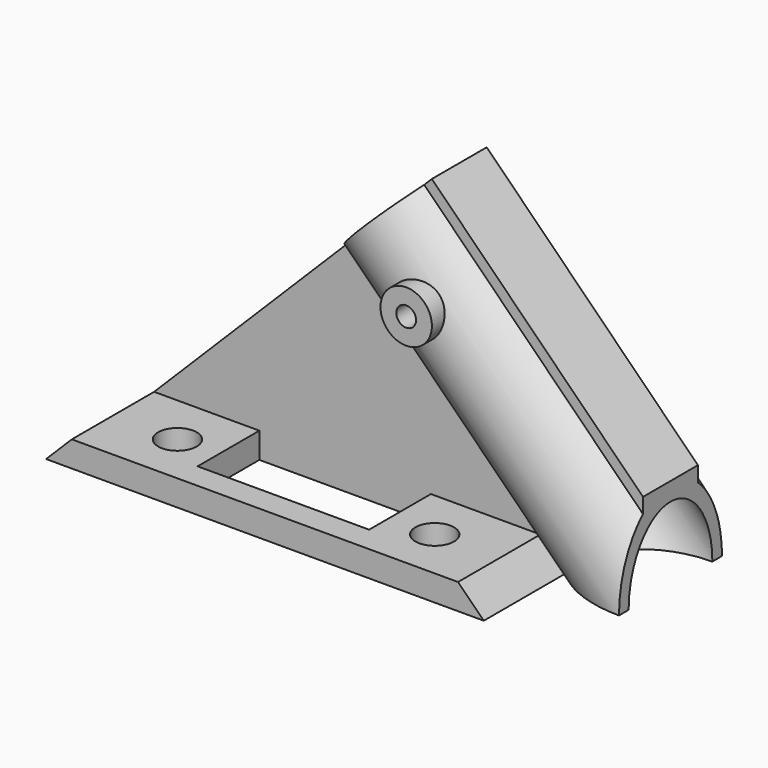
from build123d import *

# Parameters (mm, degrees)
F1_DEPTH  = 60
F3_DEPTH  = 42.4274068712
F4_R      = 3
F5_DEPTH  = 5
F6_R      = 6.1
F7_DEPTH  = 42.4274068712
F8_W      = 4
F8_H      = 30.587
F8_W_2    = 8
F8_H_2    = 34.8228137424
F9_DEPTH  = 34.831
F11_DEPTH = 12
F12_DEPTH = 20
F13_R     = 2.25
F14_DEPTH = 3
F15_W     = 20
F15_H     = 9
F16_DEPTH = 3
F17_R     = 1.15
F18_DEPTH = 25


with BuildPart() as f1:
    # F0 (on Front) → F1 (new body)
    with BuildSketch(Plane.XZ):
        Polygon((60, 60), (0, 0), (60, 0), align=None)
    extrude(amount=F1_DEPTH)

    # F2 (on face) → F3 (cut, through all)
    with BuildSketch(Plane(origin=(0, 0, 0), x_dir=(0, -1, 0), z_dir=(-0.7071067812, 0, 0.7071067812))):
        with BuildLine():
            Line((0, 84.8528137424), (0, 0))
            Line((0, 0), (26, 0))
            Line((26, 0), (26, 36.0857112298))
            ThreePointArc((26, 36.0857112298), (22.5, 42.43), (26, 48.7742887702))
            Line((26, 48.7742887702), (26, 84.8528137424))
            Line((26, 84.8528137424), (0, 84.8528137424))
        make_face()
        with BuildLine():
            Line((34, 84.8528137424), (34, 48.7742887702))
            ThreePointArc((34, 48.7742887702), (37.5, 42.43), (34, 36.0857112298))
            Line((34, 36.0857112298), (34, 0))
            Line((34, 0), (60, 0))
            Line((60, 0), (60, 84.8528137424))
            Line((60, 84.8528137424), (34, 84.8528137424))
        make_face()
    extrude(amount=-F3_DEPTH, mode=Mode.SUBTRACT)

    # F4 (on face) → F5 (join)
    with BuildSketch(Plane.XZ.offset(34)):
        with Locations((36.3863177288, 23.6187637227)):
            Circle(F4_R)
    extrude(amount=F5_DEPTH)

    # F6 (on face) → F7 (cut, through all)
    with BuildSketch(Plane(origin=(0, 0, 0), x_dir=(0, -1, 0), z_dir=(-0.7071067812, 0, 0.7071067812))):
        with Locations((30, 42.43)):
            Circle(F6_R)
    extrude(amount=-F7_DEPTH, mode=Mode.SUBTRACT)

    # F8 (on face) → F9 (cut, through all)
    with BuildSketch(Plane(origin=(0, 0, 0), x_dir=(0, -1, 0), z_dir=(-0.7071067812, 0, 0.7071067812))):
        with Locations((30, 19.5365)):
            Rectangle(F8_W, F8_H)
        with Locations((30, 67.4414068712)):
            Rectangle(F8_W_2, F8_H_2)
    extrude(amount=-F9_DEPTH, mode=Mode.SUBTRACT)

    # F10 (on face) → F11 (join)
    with BuildSketch(Plane.XZ.offset(34)):
        Polygon((3, 3), (0, 0), (51.032902229, 0), (48.032902229, 3), align=None)
    extrude(amount=F11_DEPTH)

    # F10 (on face) → F12 (join)
    with BuildSketch(Plane.XZ.offset(34)):
        Polygon((3, 3), (0, 0), (51.032902229, 0), (48.032902229, 3), align=None)
    extrude(amount=-F12_DEPTH)

    # F13 (on face) → F14 (cut, through all)
    with BuildSketch(Plane(origin=(0, 0, 0), x_dir=(1, 0, 0), z_dir=(0, 0, -1))):
        with Locations((10.5164511145, 40)):
            Circle(F13_R)
        with Locations((40.5164511145, 40)):
            Circle(F13_R)
        with Locations((40.5164511145, 20)):
            Circle(F13_R)
        with Locations((10.5164511145, 20)):
            Circle(F13_R)
    extrude(amount=-F14_DEPTH, mode=Mode.SUBTRACT)

    # F15 (on face) → F16 (cut, through all)
    with BuildSketch(Plane.XY.offset(3)):
        with Locations((25.2664511145, -21.5)):
            Rectangle(F15_W, F15_H)
        with Locations((25.2664511145, -38.5)):
            Rectangle(F15_W, F15_H)
    extrude(amount=-F16_DEPTH, mode=Mode.SUBTRACT)

    # F17 (on face) → F18 (cut)
    with BuildSketch(Plane.XZ.offset(34)):
        with Locations((36.3863177288, 23.6187637227)):
            Circle(F17_R)
    extrude(amount=F18_DEPTH, mode=Mode.SUBTRACT)


solid = f1.part
